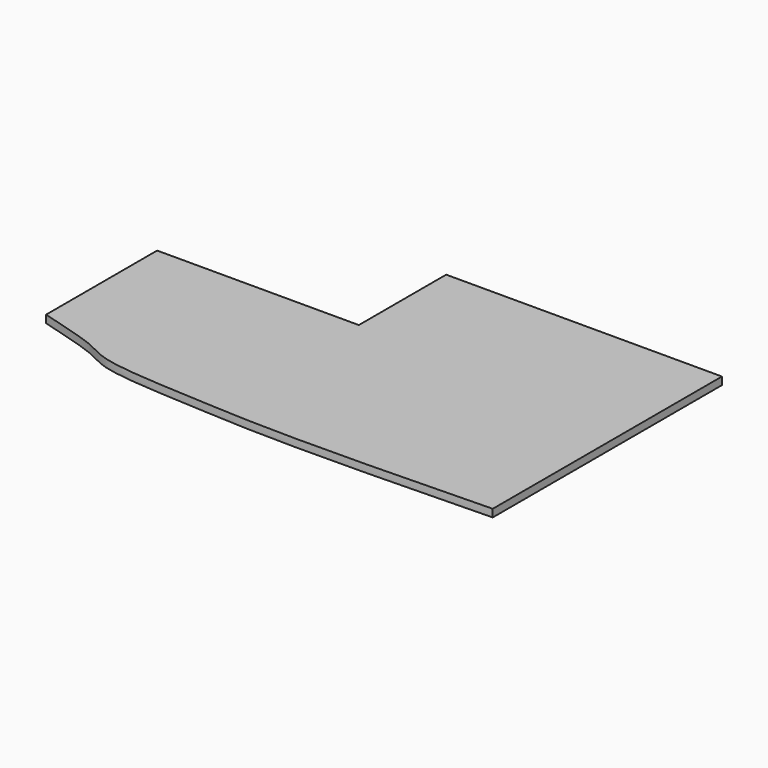
from build123d import *

# Parameters (mm, degrees)
F1_DEPTH = 12


with BuildPart() as f1:
    # F0 (on Top) → F1 (new body)
    with BuildSketch(Plane.XY):
        with BuildLine():
            Line((-433.1395402106, 0), (-750, 0))
            Line((-750, 0), (-750, -218.0232486648))
            add(Edge.make_bspline(
                [(0, -278.4883726537), (-334.2762571035, -288.0061588092), (-406.0527313487, -280.6573474276), (-618.7555058607, -271.5924866306), (-655.0535086086, -243.8321406928), (-712.9990323252, -228.7026862121), (-750, -218.0232486648)],
                knots=[0, 0, 0, 0, 0.4307043096, 0.6716382159, 0.8038497535, 1, 1, 1, 1], degree=3))
            Line((0, -278.4883726537), (0, 171.5116273463))
            Line((0, 171.5116273463), (-433.1395402106, 171.5116273463))
            Line((-433.1395402106, 171.5116273463), (-433.1395402106, 0))
        make_face()
    extrude(amount=F1_DEPTH)


with BuildPart() as f2_1:
    # F2: copy of F1
    add(f1.part)


solid = Compound([f1.part, f2_1.part])
